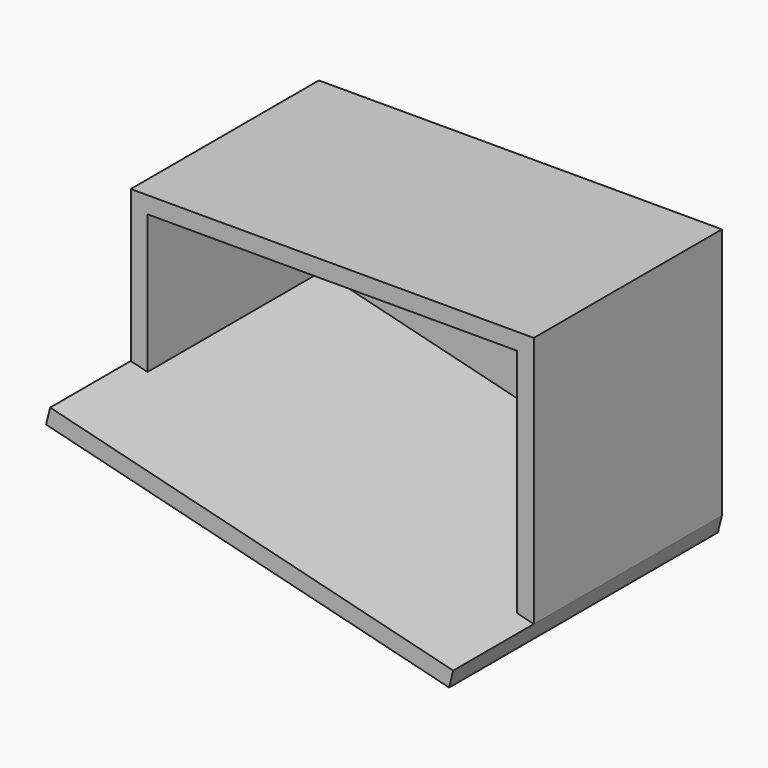
from build123d import *

# Parameters (mm, degrees)
F1_DEPTH = 20
F3_DEPTH = 260
F5_DEPTH = 400


with BuildPart() as f1:
    # F0 (on Front) → F1 (new body)
    with BuildSketch(Plane.XZ):
        Polygon((-4521.589086, -1323.485495), (-5001.589086, -1323.485495), (-5001.589086, -1503.808054), (-4521.589086, -1623.485495), align=None)
    extrude(amount=F1_DEPTH)

    # F2 (on face) → F3 (join)
    with BuildSketch(Plane.XZ.offset(20)):
        Polygon((-4521.589086, -1323.485495), (-5001.589086, -1323.485495), (-5001.589086, -1503.808054), (-4981.589086, -1508.794614), (-4981.589086, -1343.485495), (-4541.589086, -1343.485495), (-4541.589086, -1618.498935), (-4521.589086, -1623.485495), align=None)
    extrude(amount=F3_DEPTH)

    # F4 (on face) → F5 (join)
    with BuildSketch(Plane(origin=(0, 0, 0), x_dir=(-1, 0, 0), z_dir=(0, 1, 0))):
        Polygon((5006.427524, -1523.213969), (5001.589086, -1503.808054), (4521.589086, -1623.485495), (4526.427524, -1642.89141), align=None)
    extrude(amount=-F5_DEPTH)


solid = f1.part
